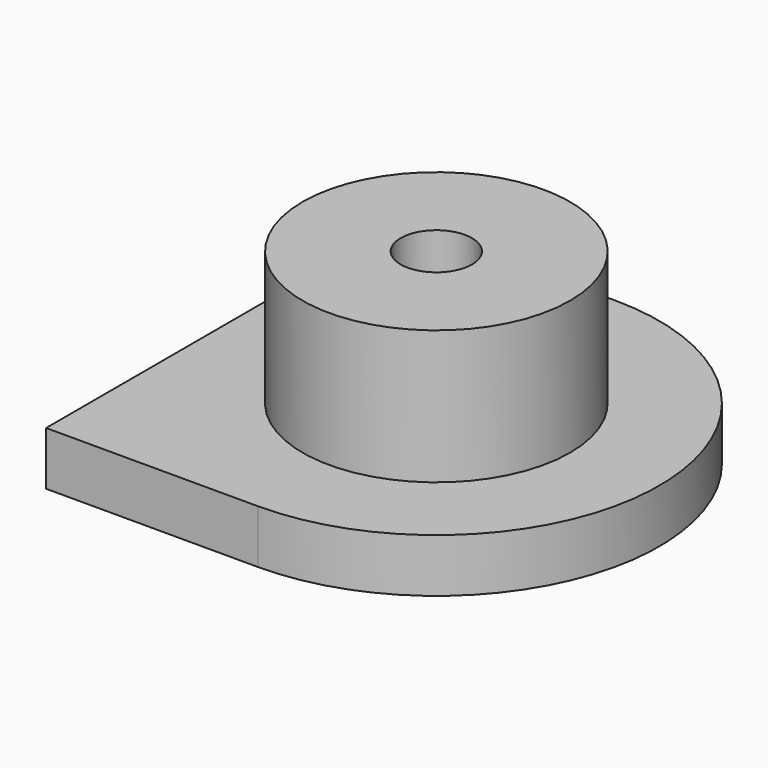
from build123d import *

# Parameters (mm, degrees)
PAD001_DEPTH          = 1.2
SKETCH002_R           = 3
PAD002_DEPTH          = 3
SKETCH003_R           = 0.8
POCKET_DEPTH          = 5
CLONE_PLACEMENT_ANGLE = 180


with BuildPart() as part:
    # Sketch001 → Pad001 (new body)
    with BuildSketch(Plane.XY):
        with BuildLine():
            ThreePointArc((-47.75, 5), (-52.75, 0), (-47.75, -5))
            Line((-43, -5), (-47.75, -5))
            Line((-43, 5), (-43, -5))
            Line((-47.75, 5), (-43, 5))
        make_face()
    extrude(amount=PAD001_DEPTH)

    # Sketch002 → Pad002 (new body)
    with BuildSketch(Plane.XY.offset(1.2)):
        with Locations((-47.75, 0)):
            Circle(SKETCH002_R)
    extrude(amount=PAD002_DEPTH)

    # Sketch003 → Pocket (cut)
    with BuildSketch(Plane.XY.offset(4.2)):
        with Locations((-47.75, 0)):
            Circle(SKETCH003_R)
    extrude(amount=-POCKET_DEPTH, mode=Mode.SUBTRACT)


with BuildPart() as part_1:
    # Clone placement: moved
    add(part.part.moved(Location((16, 0, 0))).rotate(Axis((16, 0, 0), (0, 0, 1)), CLONE_PLACEMENT_ANGLE))


solid = part_1.part
